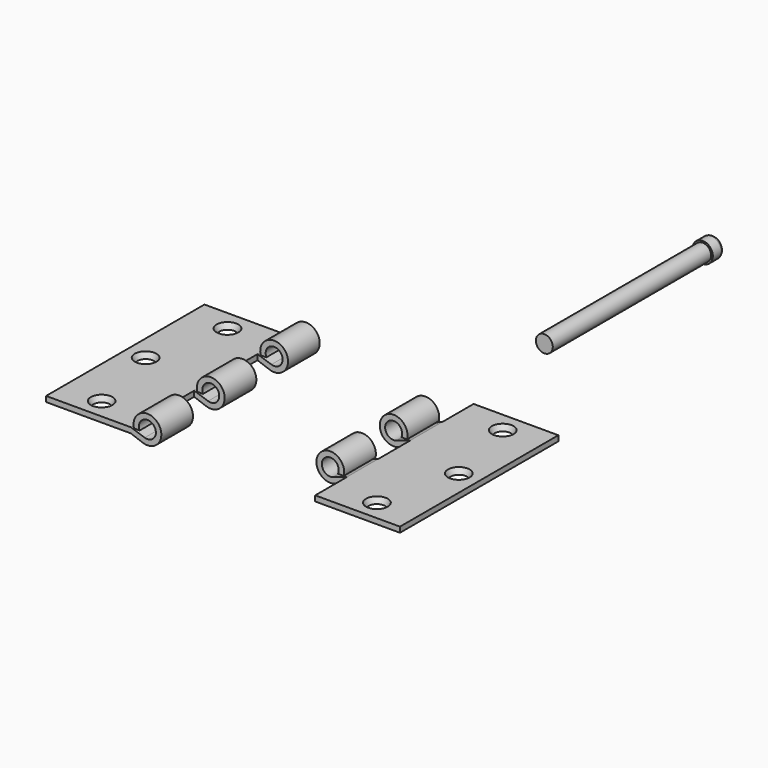
from build123d import *

# Parameters (mm, degrees)
F1_DEPTH  = 8
F4_DEPTH  = 292
F6_R      = 12
F5_R      = 16
F12_W     = 114.7051454782
F12_H     = 58.4
F7_W      = 119.2453056574
F7_H      = 58.4
F7_W_2    = 119.245
F13_DEPTH = 50
F15_R     = 12.5
F16_DEPTH = 292
F17_R     = 15
F17_R_2   = 12.5
F18_DEPTH = 20
F19_R     = 5


with BuildPart() as f1:
    # F0 (on Top) → F1 (new body)
    with BuildSketch(Plane.XY):
        Polygon((4.5, -146), (62.5, -146), (62.5, 116), (62.5, 146), (4.5, 146), (-62.5, 146), (-62.5, -146), align=None)
    extrude(amount=F1_DEPTH)

    # F3 (on face) → F4 (join)
    with BuildSketch(Plane.XZ.offset(146)):
        with BuildLine():
            ThreePointArc((-83.0422238932, 1.1431029233), (-95.4352692932, 22.2247618913), (-75.5435607626, 8))
            Line((-75.5435607626, 8), (-67.1191046479, 8))
            ThreePointArc((-67.1191046479, 8), (-102.1852087826, 26.7716895924), (-80.0874304335, -6.2993881247))
            Line((-80.0874304335, -6.2993881247), (-62.5, 0))
            Line((-62.5, 0), (-62.5, 8))
            Line((-62.5, 8), (-83.0422238932, 1.1431029233))
        make_face()
    extrude(amount=-F4_DEPTH)

    # F6 (on face) → F8 section 0
    with BuildSketch(Plane.XY):
        with Locations((4.5, -116)):
            Circle(F6_R)
    # F5 (on face) → F8 section 1
    with BuildSketch(Plane.XY.offset(8)):
        with Locations((4.5, -116)):
            Circle(F5_R)
    loft(mode=Mode.SUBTRACT)

    # F6 (on face) → F9 section 0
    with BuildSketch(Plane.XY):
        with Locations((32.5, 0)):
            Circle(F6_R)
    # F5 (on face) → F9 section 1
    with BuildSketch(Plane.XY.offset(8)):
        with Locations((32.5, 0)):
            Circle(F5_R)
    loft(mode=Mode.SUBTRACT)

    # F5 (on face) → F10 section 0
    with BuildSketch(Plane.XY.offset(8)):
        with Locations((4.5, 116)):
            Circle(F5_R)
    # F6 (on face) → F10 section 1
    with BuildSketch(Plane.XY):
        with Locations((4.5, 116)):
            Circle(F6_R)
    loft(mode=Mode.SUBTRACT)


with BuildPart() as f11_1:
    # F11: instance of F1
    add(f1.part.mirror(Plane(origin=(-198.5, 0, 4), x_dir=(0, -1, 0), z_dir=(-1, 0, 0))))


with BuildPart() as f13_tool:
    # F12 (on face) + F7 (on face) → F13 (new body, symmetric)
    with BuildSketch(Plane.XY.offset(8)):
        with Locations((-277.1474272609, -58.4)):
            Rectangle(F12_W, F12_H)
        with Locations((-277.1474272609, 58.4)):
            Rectangle(F12_W, F12_H)
    with BuildSketch(Plane.XY.offset(8)):
        with Locations((-122.1226528287, 0)):
            Rectangle(F7_W, F7_H)
        with Locations((-122.1226528287, 116.8)):
            Rectangle(F7_W, F7_H)
        with Locations((-122.1225, -116.8)):
            Rectangle(F7_W_2, F7_H)
    extrude(amount=F13_DEPTH, both=True)


with BuildPart() as f1_1:
    add(f1.part)

    # F13: cut by f13_tool
    add(f13_tool.part, mode=Mode.SUBTRACT)


with BuildPart() as f11_1_1:
    add(f11_1.part)

    # F13: cut by f13_tool
    add(f13_tool.part, mode=Mode.SUBTRACT)


with BuildPart() as f16:
    # F15 (on offset) → F16 (new body)
    with BuildSketch(Plane(origin=(0, 304.6, 0), x_dir=(-1, 0, 0), z_dir=(0, 1, 0))):
        with Locations((85.0348398089, 14.3651356921)):
            Circle(F15_R)
    extrude(amount=F16_DEPTH)

    # F17 (on face) → F18 (join)
    with BuildSketch(Plane(origin=(0, 596.6, 0), x_dir=(-1, 0, 0), z_dir=(0, 1, 0))):
        with Locations((85.0348398089, 14.3651356921)):
            Circle(F17_R)
        with Locations((85.0348398089, 14.3651356921)):
            Circle(F17_R_2, mode=Mode.SUBTRACT)
        with Locations((85.0348398089, 14.3651356921)):
            Circle(F17_R_2)
    extrude(amount=F18_DEPTH)

    # F19
    f19_edges = [f16.edges().sort_by_distance(p)[0] for p in [
        (-70.03484, 616.6, 14.365136),
    ]]
    fillet(f19_edges, radius=F19_R)


solid = Compound([f1_1.part, f11_1_1.part, f16.part])
